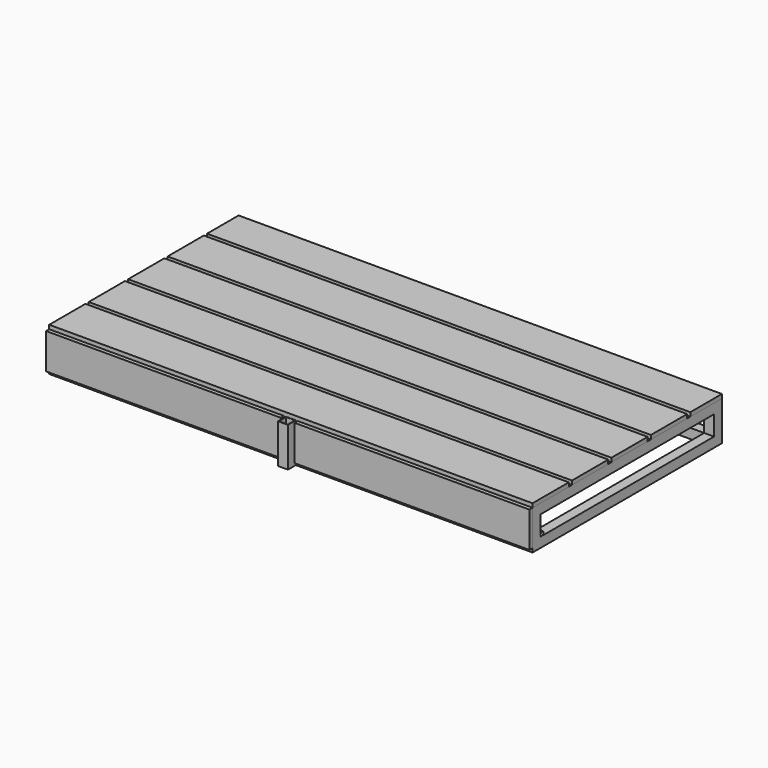
from build123d import *

# Parameters (mm, degrees)
F0_W      = 50
F0_H      = 50
F0_H_2    = 1100
F1_DEPTH  = 50
F2_W      = 50
F2_H      = 50
F3_DEPTH  = 100
F4_W      = 2450
F4_H      = 1200
F4_W_2    = 25
F4_H_2    = 1100
F4_W_3    = 50
F5_DEPTH  = 50
F6_R      = 9
F7_DEPTH  = 2450
F9_DEPTH  = 20
F10_W     = 2500
F10_H     = 1200
F11_DEPTH = 20
F12_DEPTH = 110
F13_W     = 20.458304882
F13_H     = 20
F14_DEPTH = 2500
F15_DEPTH = 60
F17_W     = 50
F17_H     = 20
F18_DEPTH = 1200.001
F19_W     = 50
F19_H     = 50
F19_W_2   = 10
F20_DEPTH = 200
F21_W     = 50
F21_H     = 50
F22_DEPTH = 5
F23_W     = 46
F23_H     = 46
F23_W_2   = 2
F23_H_2   = 2
F24_DEPTH = 195


with BuildPart() as f1:
    # F0 (on Top) → F1 (new body)
    with BuildSketch(Plane.XY):
        with Locations((1200, -575)):
            Rectangle(F0_W, F0_H)
        Polygon((-1175, -600), (1175, -600), (1175, -550), (25, -550), (0, -550), (-25, -550), (-1175, -550), align=None)
        with Locations((1200, 0)):
            Rectangle(F0_W, F0_H_2)
        with Locations((-1200, -575)):
            Rectangle(F0_W, F0_H)
        with Locations((1200, 575)):
            Rectangle(F0_W, F0_H)
        with Locations((-1200, 0)):
            Rectangle(F0_W, F0_H_2)
        Polygon((25, 550), (1175, 550), (1175, 600), (-1175, 600), (-1175, 550), (-25, 550), (0, 550), align=None)
        with Locations((-1200, 575)):
            Rectangle(F0_W, F0_H)
        Polygon((0, -550), (25, -550), (25, 0), (25, 550), (0, 550), (0, 0), align=None)
        Polygon((-25, 0), (-25, -550), (0, -550), (0, 0), (0, 550), (-25, 550), align=None)
    extrude(amount=F1_DEPTH)

    # F2 (on face) → F3 (join)
    with BuildSketch(Plane.XY.offset(50)):
        with Locations((0, 575)):
            Rectangle(F2_W, F2_H)
        with Locations((-1200, 575)):
            Rectangle(F2_W, F2_H)
        with Locations((-1200, -575)):
            Rectangle(F2_W, F2_H)
        with Locations((0, -575)):
            Rectangle(F2_W, F2_H)
        with Locations((1200, -575)):
            Rectangle(F2_W, F2_H)
        with Locations((1200, 575)):
            Rectangle(F2_W, F2_H)
    extrude(amount=F3_DEPTH)

    # F4 (on face) → F5 (join)
    with BuildSketch(Plane.XY.offset(150)):
        Rectangle(F4_W, F4_H)
        Polygon((1175, 550), (1175, -550), (625, -550), (600, -550), (575, -550), (25, -550), (-25, -550), (-575, -550), (-600, -550), (-625, -550), (-1175, -550), (-1175, 550), (-625, 550), (-600, 550), (-575, 550), (-25, 550), (25, 550), (575, 550), (600, 550), (625, 550), align=None, mode=Mode.SUBTRACT)
        with Locations((-587.5, 0)):
            Rectangle(F4_W_2, F4_H_2)
        with Locations((-612.5, 0)):
            Rectangle(F4_W_2, F4_H_2)
        with Locations((612.5, 0)):
            Rectangle(F4_W_2, F4_H_2)
        with Locations((587.5, 0)):
            Rectangle(F4_W_2, F4_H_2)
        Rectangle(F4_W_3, F4_H_2)
    extrude(amount=F5_DEPTH)

    # F6 (on face) → F7 (join)
    with BuildSketch(Plane(origin=(-1225, 0, 0), x_dir=(0, -1, 0), z_dir=(-1, 0, 0))):
        with BuildLine():
            ThreePointArc((550.5, 60), (529.6257530394, 61.6201851746), (550, 56.7984378813))
            ThreePointArc((550, 56.7984378813), (550.3742469606, 58.3798148254), (550.5, 60))
        make_face()
        with Locations((540, 60)):
            Circle(F6_R, mode=Mode.SUBTRACT)
    extrude(amount=-F7_DEPTH)

    # F21 (on face) → F22 (join)
    with BuildSketch(Plane(origin=(0, 0, 0), x_dir=(1, 0, 0), z_dir=(0, 0, -1))):
        with Locations((0, 625)):
            Rectangle(F21_W, F21_H)
    extrude(amount=-F22_DEPTH)

    # F23 (on face) → F24 (join, through all)
    with BuildSketch(Plane.XY.offset(5)):
        Polygon((25, -600), (-25, -600), (-25, -650), (23, -650), (23, -648), (25, -648), align=None)
        with Locations((0, -625)):
            Rectangle(F23_W, F23_H, mode=Mode.SUBTRACT)
        with Locations((24, -649)):
            Rectangle(F23_W_2, F23_H_2)
    extrude(amount=F24_DEPTH)


with BuildPart() as f9:
    # F8 (on face) → F9 (new body)
    with BuildSketch(Plane.XZ.offset(600)):
        Polygon((1225, 20), (1225, 200), (-1225, 200), (-1275, 200), (-1275, 20), align=None)
    extrude(amount=F9_DEPTH)

    # F12 (cut): a face of the model
    f12_faces = [f9.faces().sort_by_distance(p)[0] for p in [
        (-1275, -610, 110),
    ]]
    extrude(f12_faces, amount=-F12_DEPTH, mode=Mode.SUBTRACT)


with BuildPart() as f11:
    # F10 (on face) → F11 (new body)
    with BuildSketch(Plane.XY.offset(200)):
        with Locations((-25, 0)):
            Rectangle(F10_W, F10_H)
    extrude(amount=F11_DEPTH)

    # F13 (on face) → F14 (cut, through all)
    with BuildSketch(Plane(origin=(-1275, 0, 0), x_dir=(0, -1, 0), z_dir=(-1, 0, 0))):
        with Locations((610.229152441, 210)):
            Rectangle(F13_W, F13_H)
        with Locations((360.229152441, 210)):
            Rectangle(F13_W, F13_H)
        with Locations((110.229152441, 210)):
            Rectangle(F13_W, F13_H)
        with Locations((-139.770847559, 210)):
            Rectangle(F13_W, F13_H)
        with Locations((-389.770847559, 210)):
            Rectangle(F13_W, F13_H)
    extrude(amount=-F14_DEPTH, mode=Mode.SUBTRACT)

    # F17 (on face) → F18 (cut, through all)
    with BuildSketch(Plane.XZ.offset(600)):
        with Locations((-1250, 210)):
            Rectangle(F17_W, F17_H)
    extrude(amount=-F18_DEPTH, mode=Mode.SUBTRACT)


with BuildPart() as f15:
    # F15 (new, through all): a face of the model
    f15_faces = [f9.part.faces().sort_by_distance(p)[0] for p in [
        (-1165, -610, 110),
    ]]
    extrude(f15_faces, amount=F15_DEPTH)


with BuildPart() as f9_1:
    add(f9.part)

    # F16: union F15
    add(f15.part)

    # F19 (on face) → F20 (cut, through all)
    with BuildSketch(Plane(origin=(0, 0, 0), x_dir=(1, 0, 0), z_dir=(0, 0, -1))):
        with Locations((0, 625)):
            Rectangle(F19_W, F19_H)
        with Locations((-30, 625)):
            Rectangle(F19_W_2, F19_H)
        with Locations((30, 625)):
            Rectangle(F19_W_2, F19_H)
    extrude(amount=-F20_DEPTH, mode=Mode.SUBTRACT)


solid = Compound([f1.part, f11.part, f9_1.part])
